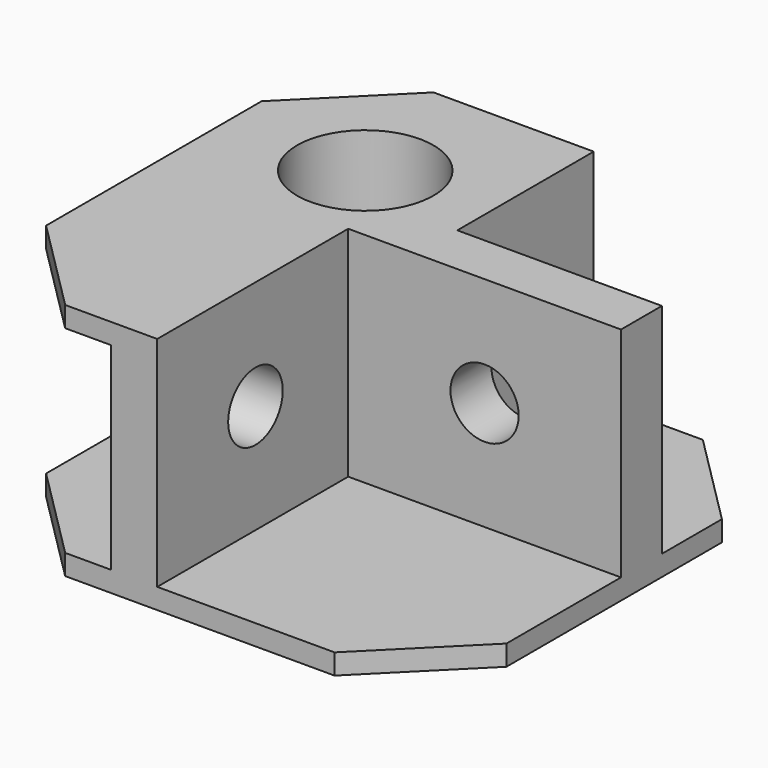
from build123d import *

# Parameters (mm, degrees)
F0_W      = 42.8625
F0_H      = 42.8625
F1_DEPTH  = 22.225
F2_SIZE   = 8.89
F3_W      = 25.4
F3_H      = 22.225
F4_DEPTH  = 20.32
F5_W      = 19.05
F5_H      = 15.875
F6_DEPTH  = 20.32
F8_D      = 12.7
F8_DEPTH  = 20.32
F8_TIP    = 3.8154649308
F9_W      = 14.1852621388
F9_H      = 18.415
F10_DEPTH = 17.78
F11_W     = 6.263975054
F11_H     = 18.415
F12_DEPTH = 25.0835
F14_D     = 6.35
F16_D     = 6.35


with BuildPart() as f1:
    # F0 (on Top) → F1 (new body)
    with BuildSketch(Plane.XY):
        Rectangle(F0_W, F0_H)
    extrude(amount=F1_DEPTH)

    # F2
    f2_edges = [f1.edges().sort_by_distance(p)[0] for p in [
        (-21.43125, -21.43125, 11.1125),
        (21.43125, -21.43125, 11.1125),
        (21.43125, 21.43125, 11.1125),
        (-21.43125, 21.43125, 11.1125),
    ]]
    chamfer(f2_edges, length=F2_SIZE)

    # F3 (on face) → F4 (cut)
    with BuildSketch(Plane.XY.offset(22.225)):
        with Locations((8.73125, -10.31875)):
            Rectangle(F3_W, F3_H)
    extrude(amount=-F4_DEPTH, mode=Mode.SUBTRACT)

    # F5 (on face) → F6 (cut)
    with BuildSketch(Plane.XY.offset(22.225)):
        with Locations((11.90625, 13.49375)):
            Rectangle(F5_W, F5_H)
    extrude(amount=-F6_DEPTH, mode=Mode.SUBTRACT)

    # F8
    with Locations(Plane.XY.offset(22.225)):
        with Locations((-8.73125, 8.73125)):
            Hole(F8_D / 2, depth=F8_DEPTH)
            with Locations((0, 0, -(F8_DEPTH + F8_TIP / 2))):  # 118° drill point
                Cone(0, F8_D / 2, F8_TIP, mode=Mode.SUBTRACT)

    # F9 (on face) → F10 (cut)
    with BuildSketch(Plane.XZ.offset(21.43125)):
        with Locations((-15.3476310694, 11.1125)):
            Rectangle(F9_W, F9_H)
    extrude(amount=-F10_DEPTH, mode=Mode.SUBTRACT)

    # F11 (on face) → F12 (cut, through all)
    with BuildSketch(Plane.XZ.offset(3.65125)):
        with Locations((-20.3739013523, 11.1125)):
            Rectangle(F11_W, F11_H)
    extrude(amount=-F12_DEPTH, mode=Mode.SUBTRACT)

    # F14 (through all)
    with Locations(Plane.YZ.offset(-3.96875)):
        with Locations((-10.00125, 12.065)):
            Hole(F14_D / 2)

    # F16 (through all)
    with Locations(Plane.XZ.offset(-0.79375)):
        with Locations((8.73125, 12.065)):
            Hole(F16_D / 2)


solid = f1.part
